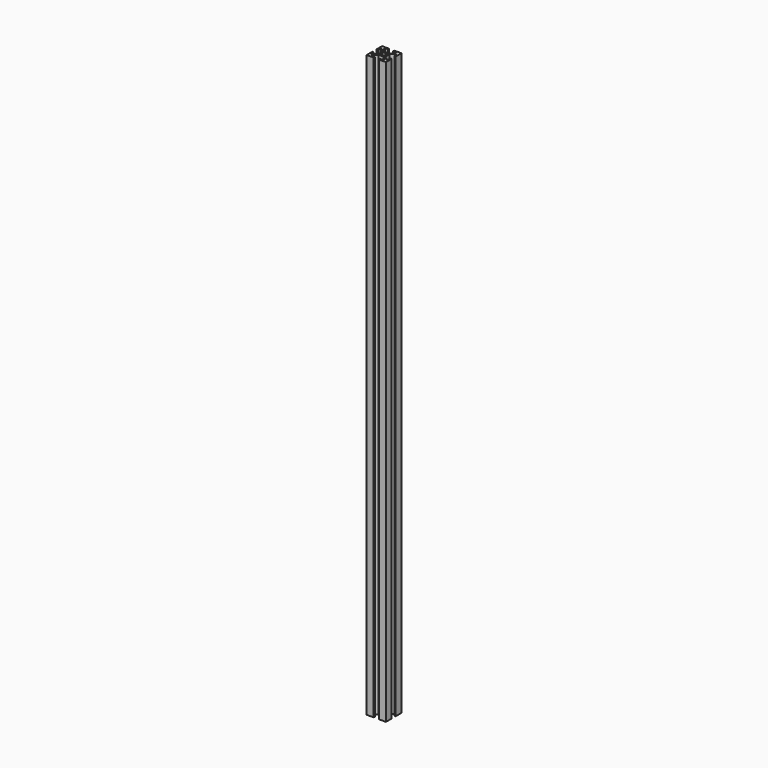
from build123d import *

# Parameters (mm, degrees)
F1_DEPTH = 600


with BuildPart() as f1:
    # F0 (on Top) → F1 (new body)
    with BuildSketch(Plane.XY):
        Polygon((10, 2.63), (10, 10), (2.63, 10), (2.63, 8.5), (5.995, 8.5), (5.995, 7.05566), (2.59934, 3.66), (-2.59934, 3.66), (-5.995, 7.05566), (-5.995, 8.5), (-2.63, 8.5), (-2.63, 10), (-10, 10), (-10, 2.63), (-8.5, 2.63), (-8.5, 5.995), (-7.05566, 5.995), (-3.66, 2.59934), (-3.66, -2.59934), (-7.05566, -5.995), (-8.5, -5.995), (-8.5, -2.63), (-10, -2.63), (-10, -10), (-2.63, -10), (-2.63, -8.5), (-5.995, -8.5), (-5.995, -7.05566), (-2.59934, -3.66), (2.59934, -3.66), (5.995, -7.05566), (5.995, -8.5), (2.63, -8.5), (2.63, -10), (10, -10), (10, -2.63), (8.5, -2.63), (8.5, -5.995), (7.05566, -5.995), (3.66, -2.59934), (3.66, 2.59934), (7.05566, 5.995), (8.5, 5.995), (8.5, 2.63), align=None)
        with BuildLine():
            ThreePointArc((1.886053, 0.912048), (2.042095, 0.467838), (2.095, 0))
            ThreePointArc((2.095, 0), (2.042095, -0.467838), (1.886053, -0.912048))
            ThreePointArc((1.886053, -0.912048), (2.102098, -1.161042), (2.179889, -1.481389))
            ThreePointArc((2.179889, -1.481389), (1.693777, -2.146816), (0.912048, -1.886053))
            ThreePointArc((0.912048, -1.886053), (0, -2.095), (-0.912048, -1.886053))
            ThreePointArc((-0.912048, -1.886053), (-1.975303, -1.975303), (-1.886053, -0.912048))
            ThreePointArc((-1.886053, -0.912048), (-2.095, 0), (-1.886053, 0.912048))
            ThreePointArc((-1.886053, 0.912048), (-1.975303, 1.975303), (-0.912048, 1.886053))
            ThreePointArc((-0.912048, 1.886053), (0, 2.095), (0.912048, 1.886053))
            ThreePointArc((0.912048, 1.886053), (1.693777, 2.146816), (2.179889, 1.481389))
            ThreePointArc((2.179889, 1.481389), (2.102098, 1.161042), (1.886053, 0.912048))
        make_face(mode=Mode.SUBTRACT)
    extrude(amount=F1_DEPTH)


solid = f1.part
